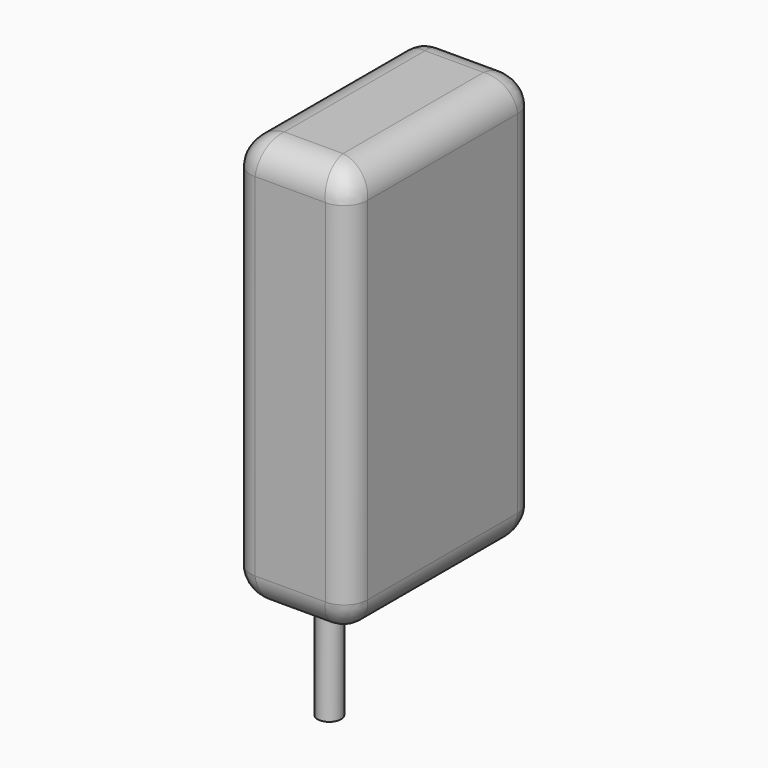
from build123d import *

# Parameters (mm, degrees)
SKETCH_W     = 6
SKETCH_H     = 10.5
PAD_DEPTH    = 1.5
FILLET_R     = 0.6
FILLET001_R  = 0.75
SKETCH001_R  = 0.3
PAD001_DEPTH = 2.6


with BuildPart() as body:
    # Sketch → Pad (new body, symmetric)
    with BuildSketch(Plane.YZ):
        with Locations((0, 5.25)):
            Rectangle(SKETCH_W, SKETCH_H)
    extrude(amount=PAD_DEPTH, both=True)

    # Fillet
    fillet_edges = [body.edges().sort_by_distance(p)[0] for p in [
        (-1.5, 3, 5.25),
        (-1.5, -3, 5.25),
        (1.5, 3, 5.25),
        (1.5, -3, 5.25),
    ]]
    fillet(fillet_edges, radius=FILLET_R)

    # Fillet001
    fillet001_edges = [body.edges().sort_by_distance(p)[0] for p in [
        (0, 3, 10.5),
        (1.324264, 2.824264, 10.5),
        (1.5, 0, 10.5),
        (1.324264, -2.824264, 10.5),
        (0, -3, 10.5),
        (-1.324264, -2.824264, 10.5),
        (-1.5, 0, 10.5),
        (-1.324264, 2.824264, 10.5),
        (-1.5, 0, 0),
        (-1.324264, -2.824264, 0),
        (0, -3, 0),
        (1.324264, -2.824264, 0),
        (1.5, 0, 0),
        (1.324264, 2.824264, 0),
        (0, 3, 0),
        (-1.324264, 2.824264, 0),
    ]]
    fillet(fillet001_edges, radius=FILLET001_R)


with BuildPart() as obj1:
    # Sketch001 → Pad001 (new body)
    with BuildSketch(Plane(origin=(0, 1.75, 0), x_dir=(1, 0, 0), z_dir=(0, 0, 1))):
        Circle(SKETCH001_R)
    extrude(amount=-PAD001_DEPTH)


with BuildPart() as obj1_1:
    # Body002 placement: moved
    add(obj1.part.moved(Location((0, -3.5, 0))))


solid = Compound([body.part, obj1_1.part])
